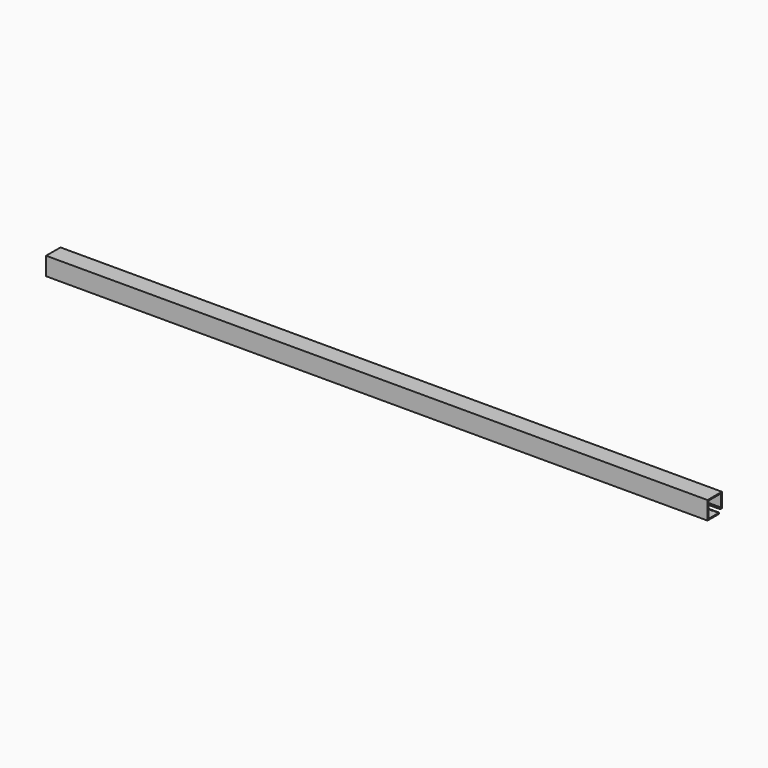
from build123d import *

# Parameters (mm, degrees)
F1_DEPTH = 1000


with BuildPart() as f1:
    # F0 (on Right) → F1 (new body)
    with BuildSketch(Plane.YZ):
        with BuildLine():
            Line((27.2, 5.35), (27.2, 27.35))
            Line((27.2, 27.35), (0, 27.35))
            Line((0, 27.35), (0, 0))
            Line((0, 0), (22, 0))
            Line((22, 0), (22, 1.6))
            ThreePointArc((22, 1.6), (21.926777, 1.776777), (21.75, 1.85))
            Line((21.75, 1.85), (21.37081, 1.85))
            ThreePointArc((21.37081, 1.85), (21.147203, 1.781662), (21, 1.6))
            Line((21, 1.6), (1.6, 1.6))
            Line((1.6, 1.6), (1.6, 13.675))
            Line((1.6, 13.675), (1.6, 25.75))
            Line((1.6, 25.75), (25.6, 25.75))
            Line((25.6, 25.75), (25.6, 6.95))
            Line((25.6, 6.95), (24.7, 6.95))
            ThreePointArc((24.7, 6.95), (24.552797, 7.131662), (24.32919, 7.2))
            Line((24.32919, 7.2), (23.85, 7.2))
            ThreePointArc((23.85, 7.2), (23.673223, 7.126777), (23.6, 6.95))
            Line((23.6, 6.95), (23.6, 5.85))
            ThreePointArc((23.6, 5.85), (23.746447, 5.496447), (24.1, 5.35))
            Line((24.1, 5.35), (27.2, 5.35))
        make_face()
    extrude(amount=F1_DEPTH)


solid = f1.part
